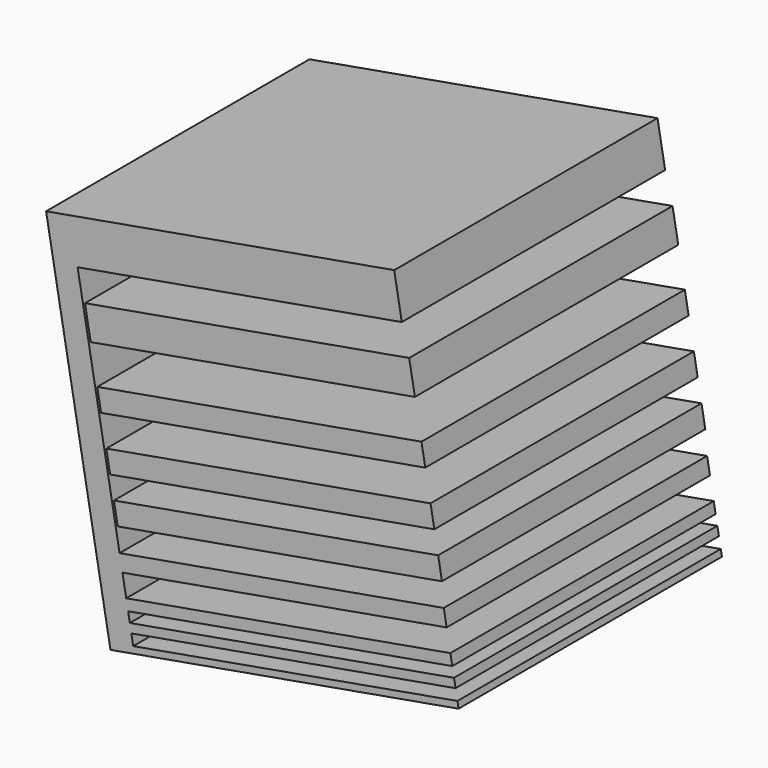
from build123d import *

# Parameters (mm, degrees)
F0_W     = 0.6
F0_H     = 30
F0_W_2   = 1.5
F0_W_3   = 1
F0_W_4   = 0.8
F0_W_5   = 4
F1_DEPTH = 15
F0_W_6   = 3
F0_W_7   = 2
F2_ANGLE = 80


with BuildPart() as f1:
    # F0 (on Front) → F1 (new body, symmetric)
    with BuildSketch(Plane.XZ):
        with Locations((49.3928515792, -1.1437503994)):
            Rectangle(F0_W, F0_H)
        with Locations((42.6777586043, -1.1437503994)):
            Rectangle(F0_W_2, F0_H)
        Polygon((19.9004312009, -16.1437503994), (15.9004312009, -16.1437503994), (15.9004312009, -18.3566045016), (49.6928515792, -18.3566045016), (49.6928515792, -16.1437503994), (49.0928515792, -16.1437503994), (48.1098531365, -16.1437503994), (47.3098531365, -16.1437503994), (46.4057529569, -16.1437503994), (45.4057529569, -16.1437503994), (43.4277586043, -16.1437503994), (41.9277586043, -16.1437503994), align=None)
        with Locations((45.9057529569, -1.1437503994)):
            Rectangle(F0_W_3, F0_H)
        with Locations((47.7098531365, -1.1437503994)):
            Rectangle(F0_W_4, F0_H)
        with Locations((17.9004312009, -1.1437503994)):
            Rectangle(F0_W_5, F0_H)
    extrude(amount=F1_DEPTH, both=True)


with BuildPart() as f1b:
    # F0 (on Front) → F1, piece 2 (new body, symmetric)
    with BuildSketch(Plane.XZ):
        with Locations((24.1395670325, -0.9429162741)):
            Rectangle(F0_W_6, F0_H)
    extrude(amount=F1_DEPTH, both=True)


with BuildPart() as f1c:
    # F0 (on Front) → F1, piece 3 (new body, symmetric)
    with BuildSketch(Plane.XZ):
        with Locations((34.8405109942, -0.9429162741)):
            Rectangle(F0_W_7, F0_H)
    extrude(amount=F1_DEPTH, both=True)


with BuildPart() as f1d:
    # F0 (on Front) → F1, piece 4 (new body, symmetric)
    with BuildSketch(Plane.XZ):
        with Locations((38.8436429203, -0.9429162741)):
            Rectangle(F0_W_7, F0_H)
    extrude(amount=F1_DEPTH, both=True)


with BuildPart() as f1e:
    # F0 (on Front) → F1, piece 5 (new body, symmetric)
    with BuildSketch(Plane.XZ):
        with Locations((30.0888082236, -0.9429162741)):
            Rectangle(F0_W_7, F0_H)
    extrude(amount=F1_DEPTH, both=True)


with BuildPart() as f1_1:
    # F2: moved
    add(f1.part.rotate(Axis((49.6928515792, 0, -18.3566045016), (0, 1, 0)), F2_ANGLE))


with BuildPart() as f1b_1:
    # F2: moved
    add(f1b.part.rotate(Axis((49.6928515792, 0, -18.3566045016), (0, 1, 0)), F2_ANGLE))


with BuildPart() as f1e_1:
    # F2: moved
    add(f1e.part.rotate(Axis((49.6928515792, 0, -18.3566045016), (0, 1, 0)), F2_ANGLE))


with BuildPart() as f1c_1:
    # F2: moved
    add(f1c.part.rotate(Axis((49.6928515792, 0, -18.3566045016), (0, 1, 0)), F2_ANGLE))


with BuildPart() as f1d_1:
    # F2: moved
    add(f1d.part.rotate(Axis((49.6928515792, 0, -18.3566045016), (0, 1, 0)), F2_ANGLE))


solid = Compound([f1_1.part, f1b_1.part, f1e_1.part, f1c_1.part, f1d_1.part])
